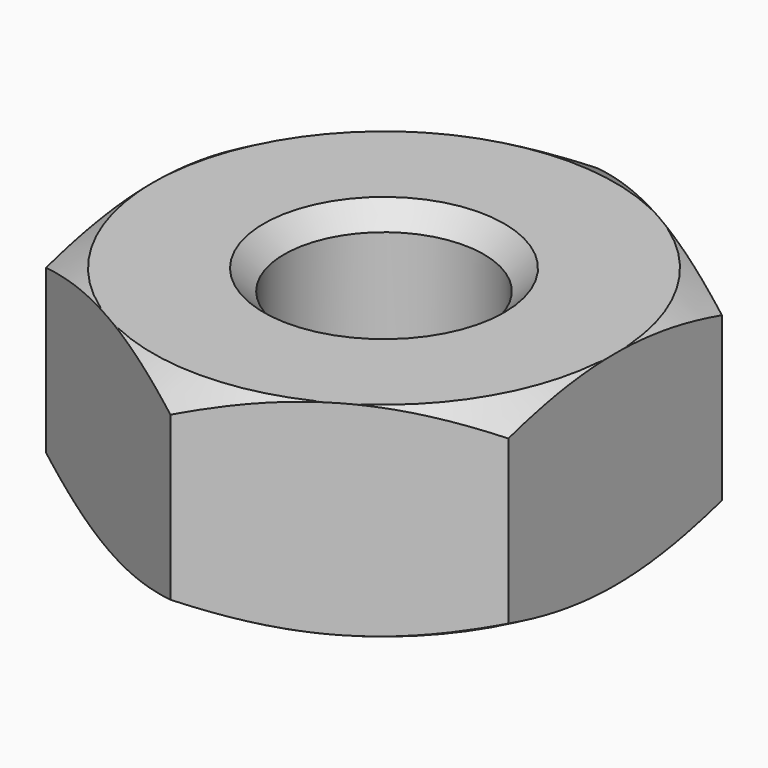
from build123d import *

# Parameters (mm, degrees)
F0_R     = 12.423166
F1_DEPTH = 25.4
F4_SIZE  = 2.54
F5_SIZE  = 2.54


with BuildPart() as f1:
    # F0 (on Top) → F1 (new body)
    with BuildSketch(Plane.XY):
        Polygon((-28.755525, 16.60201), (-28.755525, -16.60201), (0, -33.20402), (28.755525, -16.60201), (28.755525, 16.60201), (0, 33.20402), align=None)
        Circle(F0_R, mode=Mode.SUBTRACT)
    extrude(amount=F1_DEPTH)

    # F2 (on Front) → F3 (revolve, cut)
    with BuildSketch(Plane.XZ):
        Polygon((-47.010668, 14.860389), (-28.755525, 25.4), (-47.010668, 25.4), align=None)
        Polygon((-47.010668, 0), (-28.755525, 0), (-47.010668, 10.539611), align=None)
    revolve(axis=Axis((0, 0, 12.7), (0, 0, 1)), mode=Mode.SUBTRACT)

    # F4
    f4_edges = [f1.edges().sort_by_distance(p)[0] for p in [
        (-12.423166, 0, 25.4),
    ]]
    chamfer(f4_edges, length=F4_SIZE)

    # F5
    f5_edges = [f1.edges().sort_by_distance(p)[0] for p in [
        (-12.423166, 0, 0),
    ]]
    chamfer(f5_edges, length=F5_SIZE)


solid = f1.part
